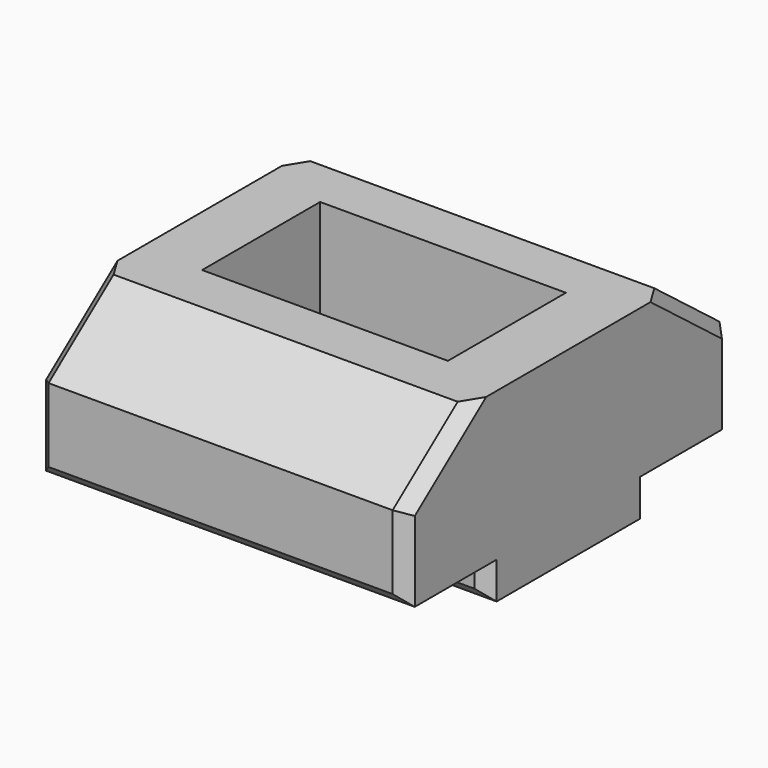
from build123d import *

# Parameters (mm, degrees)
PAD006_DEPTH    = 15
SKETCH025_R     = 2.65
POCKET015_DEPTH = 7.544824
SKETCH026_W     = 6
SKETCH026_H     = 10
POCKET016_DEPTH = 4.4
SKETCH027_R     = 2.65
PAD007_DEPTH    = 0.2
CHAMFER011_SIZE = 0.5
CHAMFER012_SIZE = 0.5


with BuildPart() as part:
    # Sketch024 → Pad006 (new body)
    with BuildSketch(Plane.YZ):
        Polygon((-5.001667, 2.543824), (4.998333, 2.543824), (8.310604, 0), (8.310604, -3.5), (4.148333, -3.5), (4.148333, -5), (-4.148333, -5), (-4.148333, -3.5), (-8.310604, -3.5), (-8.310604, 0.00256), align=None)
    extrude(amount=PAD006_DEPTH)

    # Sketch025 (on Face1 of Pad006) → Pocket015 (cut, through all)
    with BuildSketch(Plane(origin=(0, 0, 2.543824), x_dir=(0, -1, 0), z_dir=(0, 0, 1))):
        with Locations((0, 7.5)):
            Circle(SKETCH025_R)
    extrude(amount=-POCKET015_DEPTH, mode=Mode.SUBTRACT)

    # Sketch026 (on Face1 of Pocket015) → Pocket016 (cut)
    with BuildSketch(Plane(origin=(0, 0, 2.543824), x_dir=(0, -1, 0), z_dir=(0, 0, 1))):
        with Locations((0, 7.5)):
            Rectangle(SKETCH026_W, SKETCH026_H)
    extrude(amount=-POCKET016_DEPTH, mode=Mode.SUBTRACT)

    # Sketch027 (on Face17 of Pocket016) → Pad007 (join)
    with BuildSketch(Plane(origin=(0, 0, -1.856176), x_dir=(0, -1, 0), z_dir=(0, 0, 1))):
        with Locations((0, 7.5)):
            Circle(SKETCH027_R)
    extrude(amount=-PAD007_DEPTH)

    # Chamfer011
    chamfer011_edges = [part.edges().sort_by_distance(p)[0] for p in [
        (15, -8.310604, -1.74872),
        (15, -6.656135, 1.273192),
        (15, 6.654468, 1.271912),
        (15, 8.310604, -1.75),
        (0, -8.310604, -1.74872),
        (0, -6.656135, 1.273192),
        (0, 6.654468, 1.271912),
        (0, 8.310604, -1.75),
        (7.5, -8.310604, -3.5),
        (7.5, 8.310604, -3.5),
    ]]
    chamfer(chamfer011_edges, length=CHAMFER011_SIZE)

    # Chamfer012
    chamfer012_edges = [part.edges().sort_by_distance(p)[0] for p in [
        (7.5, 4.148333, -5),
        (15, 4.148333, -4.25),
        (0, 4.148333, -4.25),
        (15, -4.148333, -4.25),
        (7.5, -4.148333, -5),
        (0, -4.148333, -4.25),
    ]]
    chamfer(chamfer012_edges, length=CHAMFER012_SIZE)


with BuildPart() as part_1:
    # Body004 placement: moved
    add(part.part.moved(Location((110.15, 0, 0))))


solid = part_1.part
